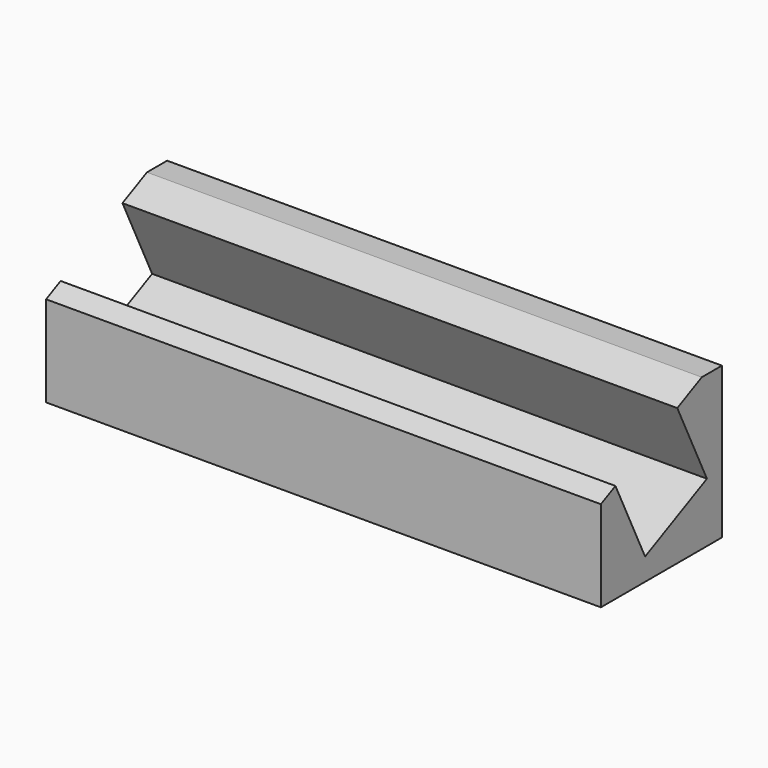
from build123d import *

# Parameters (mm, degrees)
F0_W     = 139.7
F0_H     = 38.1
F1_DEPTH = 38.1
F3_DEPTH = 139.701
F5_DEPTH = 139.701


with BuildPart() as f1:
    # F0 (on Top) → F1 (new body)
    with BuildSketch(Plane.XY):
        Rectangle(F0_W, F0_H)
    extrude(amount=F1_DEPTH)

    # F2 (on face) → F3 (cut, through all)
    with BuildSketch(Plane.YZ.offset(69.85)):
        Polygon((-19.05, 22.86), (12.7, 38.1), (-19.05, 38.1), align=None)
    extrude(amount=-F3_DEPTH, mode=Mode.SUBTRACT)

    # F4 (on face) → F5 (cut, through all)
    with BuildSketch(Plane.YZ.offset(69.85)):
        Polygon((14.336284, 14.937055), (4.99362, 34.400938), (-14.470263, 25.058274), (-5.127599, 5.594391), align=None)
    extrude(amount=-F5_DEPTH, mode=Mode.SUBTRACT)


solid = f1.part
